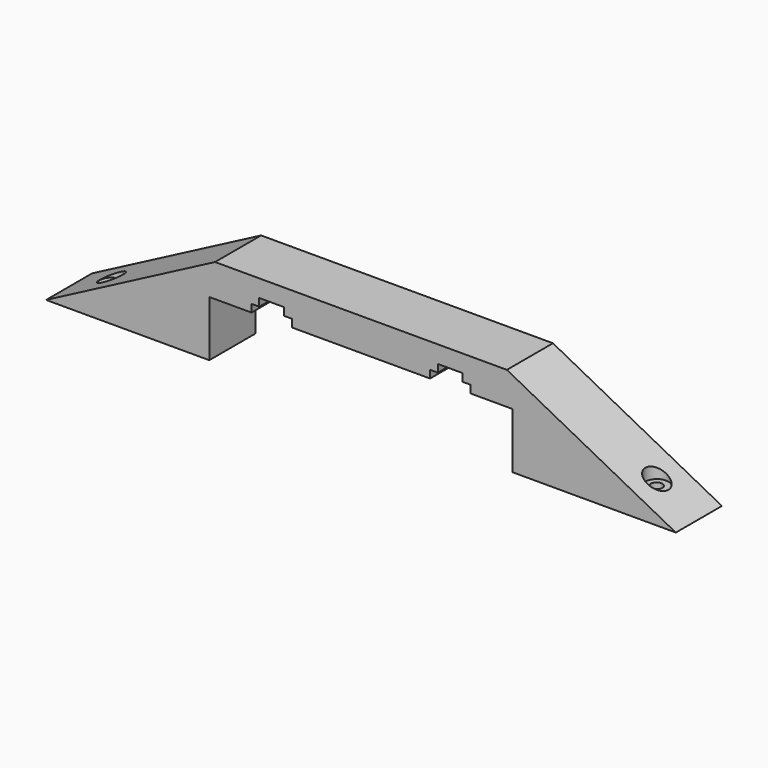
from build123d import *

# Parameters (mm, degrees)
F2_DEPTH = 15
F3_R     = 1.5
F4_DEPTH = 23.001
F5_R     = 3
F6_DEPTH = 4.5
F9_DEPTH = 4.3


with BuildPart() as f2:
    # F1 (on Front) → F2 (new body)
    with BuildSketch(Plane.XZ):
        Polygon((-82, 0), (-39.5, 0), (-39.5, 14.5), (-28.5, 14.5), (-28.5, 16.5), (-26.5, 16.5), (-26.5, 18.5), (-20, 18.5), (-20, 16.5), (-18, 16.5), (-18, 14.5), (0, 14.5), (18, 14.5), (18, 16.5), (20, 16.5), (20, 18.5), (26.5, 18.5), (26.5, 16.5), (28.5, 16.5), (28.5, 14.5), (39.5, 14.5), (39.5, 0), (82, 0), (38, 23), (0, 23), (-38, 23), align=None)
    extrude(amount=F2_DEPTH)

    # F3 (on Top) → F4 (cut, through all)
    with BuildSketch(Plane.XY):
        with Locations((71, -7.5)):
            Circle(F3_R)
        with Locations((-71, -7.5)):
            Circle(F3_R)
    extrude(amount=F4_DEPTH, mode=Mode.SUBTRACT)

    # F5 (on offset) → F6 (cut)
    with BuildSketch(Plane.XY.offset(8.6)):
        with Locations((-70.968017, -7.505668)):
            Circle(F5_R)
        with Locations((71.05542, -7.498881)):
            Circle(F5_R)
    extrude(amount=-F6_DEPTH, mode=Mode.SUBTRACT)

    # F8 (on offset) → F9 (join)
    with BuildSketch(Plane.XY.offset(23)):
        Polygon((38, -15), (38, -13.471063), (7.746612, -7.5), (38, -1.528937), (38, 0), (30.253388, 0), (0, -5.971063), (-30.253388, 0), (-38, 0), (-38, -1.528937), (-7.746612, -7.5), (-38, -13.471063), (-38, -15), (-30.253388, -15), (0, -9.028937), (30.253388, -15), align=None)
    extrude(amount=-F9_DEPTH)


solid = f2.part
